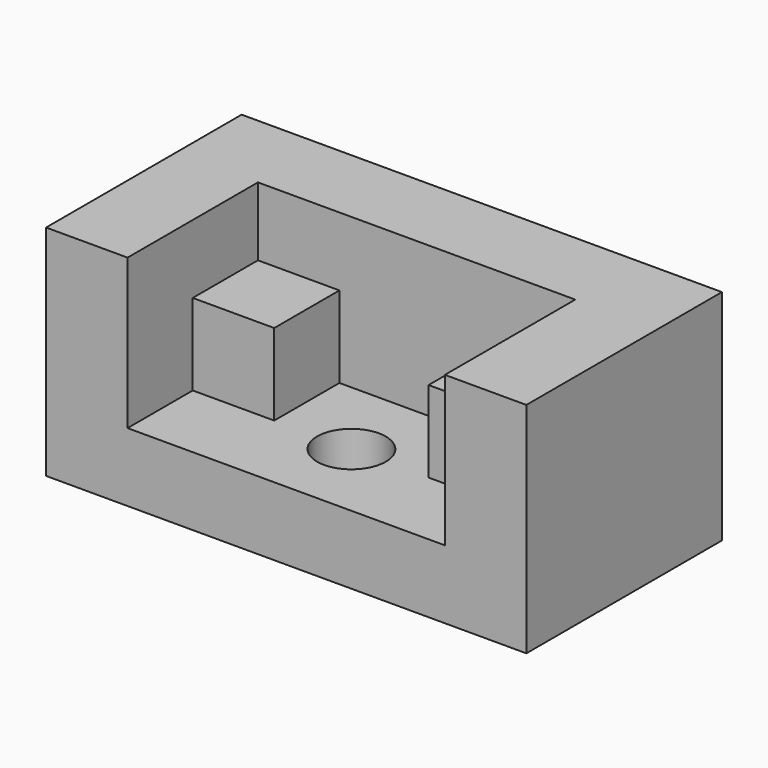
from build123d import *

# Parameters (mm, degrees)
F1_DEPTH = 37
F2_W     = 36
F2_H     = 19
F3_DEPTH = 19
F4_W     = 57
F4_H     = 51
F5_DEPTH = 19
F6_W     = 57
F6_H     = 51
F7_DEPTH = 19
F8_R     = 8
F9_DEPTH = 51


with BuildPart() as f1:
    # F0 (on Right) → F1 (new body, symmetric)
    with BuildSketch(Plane.YZ):
        Polygon((0, 16), (0, 0), (57, 0), (57, 51), (38, 51), (38, 35), (19, 35), (19, 16), align=None)
    extrude(amount=F1_DEPTH, both=True)

    # F2 (on face) → F3 (cut)
    with BuildSketch(Plane.XY.offset(35)):
        with Locations((0, 28.5)):
            Rectangle(F2_W, F2_H)
    extrude(amount=-F3_DEPTH, mode=Mode.SUBTRACT)

    # F4 (on face) → F5 (join)
    with BuildSketch(Plane.YZ.offset(37)):
        with Locations((28.5, 25.5)):
            Rectangle(F4_W, F4_H)
    extrude(amount=F5_DEPTH)

    # F6 (on face) → F7 (join)
    with BuildSketch(Plane(origin=(-37, 0, 0), x_dir=(0, -1, 0), z_dir=(-1, 0, 0))):
        with Locations((-28.5, 25.5)):
            Rectangle(F6_W, F6_H)
    extrude(amount=F7_DEPTH)

    # F8 (on face) → F9 (cut)
    with BuildSketch(Plane.XY.offset(16)):
        with Locations((0, 19)):
            Circle(F8_R)
    extrude(amount=-F9_DEPTH, mode=Mode.SUBTRACT)


solid = f1.part
